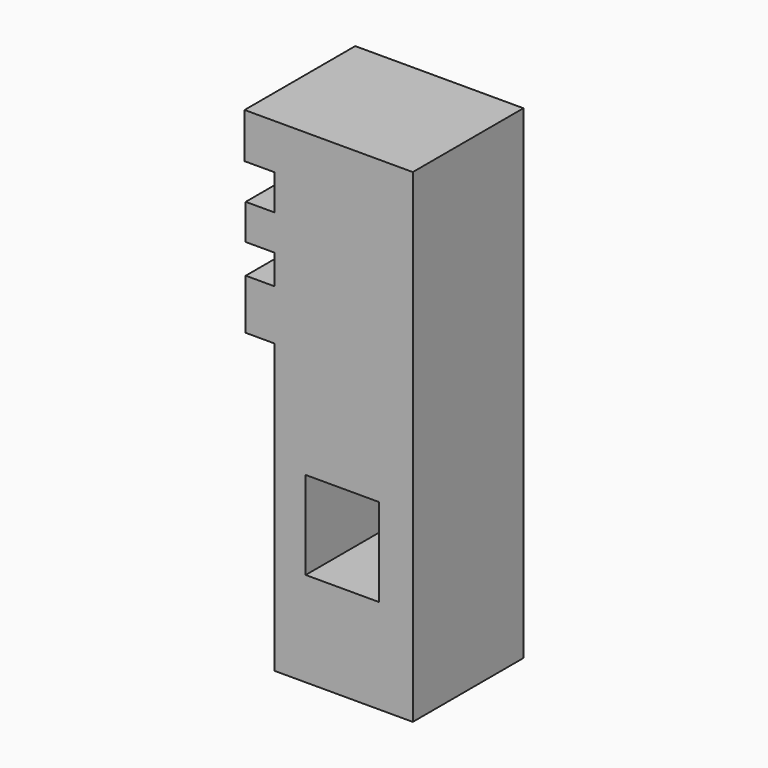
from build123d import *

# Parameters (mm, degrees)
F0_W     = 13.4628936648
F0_H     = 16.1730796099
F0_W_2   = 5.4922168999
F0_H_2   = 8.2855048865
F0_W_3   = 5.2812833667
F0_H_3   = 6.5011191182
F0_H_4   = 9.2424242757
F1_DEPTH = 25.4


with BuildPart() as f1:
    # F0 (on Front) → F1 (new body)
    with BuildSketch(Plane.XZ):
        Polygon((-29.0956337333, -67.6122568771), (-29.0956337333, -16.8122568771), (-54.4956337333, -16.8122568771), (-54.4956337333, -23.1622568771), (-54.4956337333, -67.6122568771), align=None)
        with Locations((-42.03697294, -42.1628169715)):
            Rectangle(F0_W, F0_H, mode=Mode.SUBTRACT)
        Polygon((-29.0956337333, 21.2877431229), (-54.4956337333, 21.2877431229), (-54.4956337333, 13.0022382364), (-54.4956337333, 6.5011191182), (-54.4956337333, 0), (-54.4956337333, -5.4398714565), (-54.4956337333, -14.6822957322), (-54.4956337333, -16.8122568771), (-29.0956337333, -16.8122568771), align=None)
        with Locations((-57.2417421832, 17.1449906796)):
            Rectangle(F0_W_2, F0_H_2)
        with Locations((-57.1362754166, 3.2505595591)):
            Rectangle(F0_W_3, F0_H_3)
        with Locations((-57.1362754166, -10.0610835943)):
            Rectangle(F0_W_3, F0_H_4)
    extrude(amount=F1_DEPTH)


solid = f1.part
